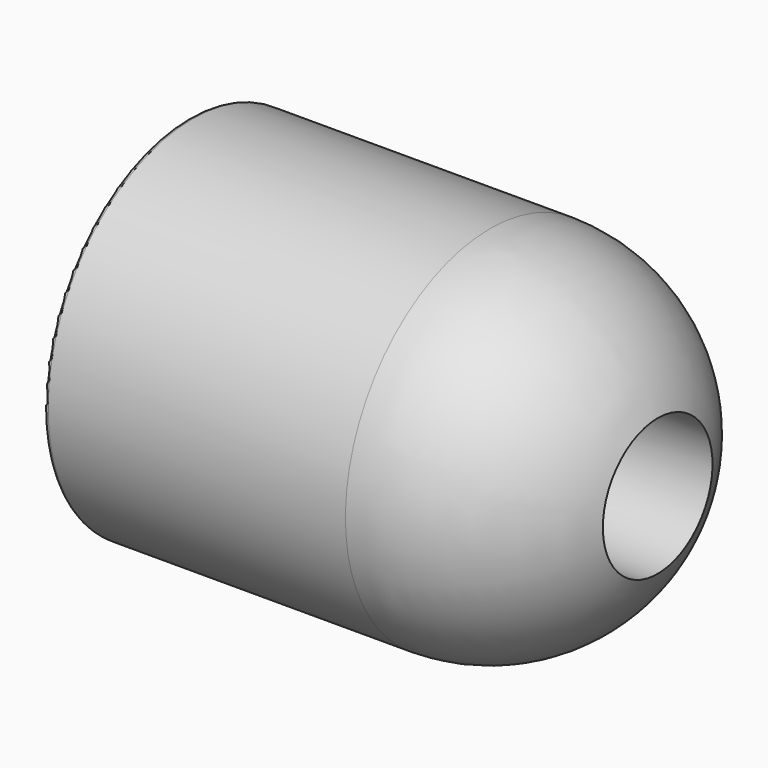
from build123d import *

# Parameters (mm, degrees)
F2_R     = 1.7145
F3_DEPTH = 9.525
F4_R     = 0.3048


with BuildPart() as f1:
    # F0 (on Front) → F1 (revolve)
    with BuildSketch(Plane.XZ):
        with BuildLine():
            Line((0, 12.573), (0, 0))
            Line((0, 0), (13.843, 0))
            Line((13.843, 0), (13.843, 3.175))
            Line((13.843, 3.175), (24.003, 3.175))
            Line((24.003, 3.175), (24.003, 4.7625))
            Line((24.003, 4.7625), (32.591104, 4.7625))
            ThreePointArc((32.591104, 4.7625), (27.96219, 10.43933), (20.955, 12.573))
            Line((20.955, 12.573), (0, 12.573))
        make_face()
    revolve(axis=Axis((6.9215, 0, 0), (-1, 0, 0)))

    # F2 (on face) → F3 (cut)
    with BuildSketch(Plane(origin=(0, 0, 0), x_dir=(0, -1, 0), z_dir=(-1, 0, 0))):
        with Locations((0, 9.525)):
            Circle(F2_R)
        with Locations((-9.525, 0)):
            Circle(F2_R)
        with Locations((0, -9.525)):
            Circle(F2_R)
        with Locations((9.525, 0)):
            Circle(F2_R)
    extrude(amount=-F3_DEPTH, mode=Mode.SUBTRACT)

    # F4
    f4_edges = [f1.edges().sort_by_distance(p)[0] for p in [
        (0, 0, -12.573),
    ]]
    fillet(f4_edges, radius=F4_R)


solid = f1.part
